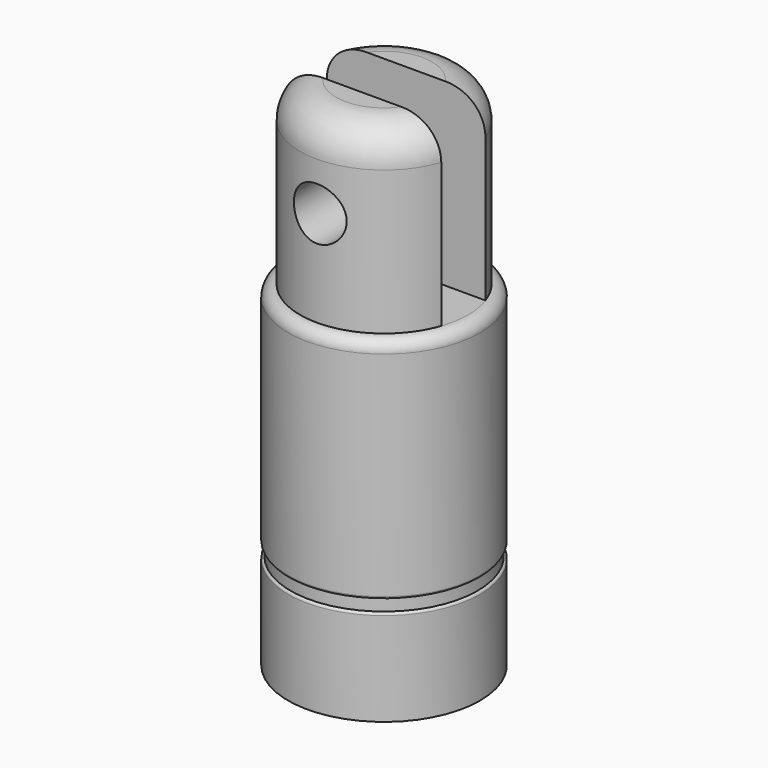
from build123d import *

# Parameters (mm, degrees)
SKETCH004_W  = 10
SKETCH004_H  = 8
PAD004_DEPTH = 1.15
SKETCH_R     = 4
PAD_DEPTH    = 4
SKETCH001_R  = 3.9
PAD001_DEPTH = 0.5
SKETCH002_R  = 4
PAD002_DEPTH = 9.5
SKETCH003_R  = 3.5
PAD003_DEPTH = 7.5
FILLET_R     = 1.5
FILLET001_R  = 0.499
FILLET002_R  = 0.099
SKETCH005_R  = 1.1
POCKET_DEPTH = 5


with BuildPart() as body001:
    # Sketch004 (on DatumPlane) → Pad004 (new body, symmetric)
    with BuildSketch(Plane(origin=(0, 0, 17), x_dir=(1, 0, 0), z_dir=(0, -1, 0))):
        with Locations((0, 1)):
            Rectangle(SKETCH004_W, SKETCH004_H)
    extrude(amount=PAD004_DEPTH, both=True)


with BuildPart() as body:
    # Sketch → Pad (new body)
    with BuildSketch(Plane.XY):
        Circle(SKETCH_R)
    extrude(amount=PAD_DEPTH)

    # Sketch001 (on Face3 of Pad) → Pad001 (join)
    with BuildSketch(Plane.XY.offset(4)):
        Circle(SKETCH001_R)
    extrude(amount=PAD001_DEPTH)

    # Sketch002 (on Face5 of Pad001) → Pad002 (join)
    with BuildSketch(Plane.XY.offset(4.5)):
        Circle(SKETCH002_R)
    extrude(amount=PAD002_DEPTH)

    # Sketch003 (on Face3 of Pad002) → Pad003 (join)
    with BuildSketch(Plane.XY.offset(14)):
        Circle(SKETCH003_R)
    extrude(amount=PAD003_DEPTH)

    # Fillet
    fillet_edges = [body.edges().sort_by_distance(p)[0] for p in [
        (-3.5, 0, 21.5),
    ]]
    fillet(fillet_edges, radius=FILLET_R)

    # Fillet001
    fillet001_edges = [body.edges().sort_by_distance(p)[0] for p in [
        (-4, 0, 14),
    ]]
    fillet(fillet001_edges, radius=FILLET001_R)

    # Fillet002
    fillet002_edges = [body.edges().sort_by_distance(p)[0] for p in [
        (-4, 0, 4),
        (-4, 0, 4.5),
    ]]
    fillet(fillet002_edges, radius=FILLET002_R)

    # Boolean: cut Body001
    add(body001.part, mode=Mode.SUBTRACT)

    # Sketch005 (on Face14 of Boolean) → Pocket (cut, symmetric)
    with BuildSketch(Plane.XZ.offset(-1.15)):
        with Locations((0, 18)):
            Circle(SKETCH005_R)
    extrude(amount=POCKET_DEPTH, both=True, mode=Mode.SUBTRACT)


solid = body.part
